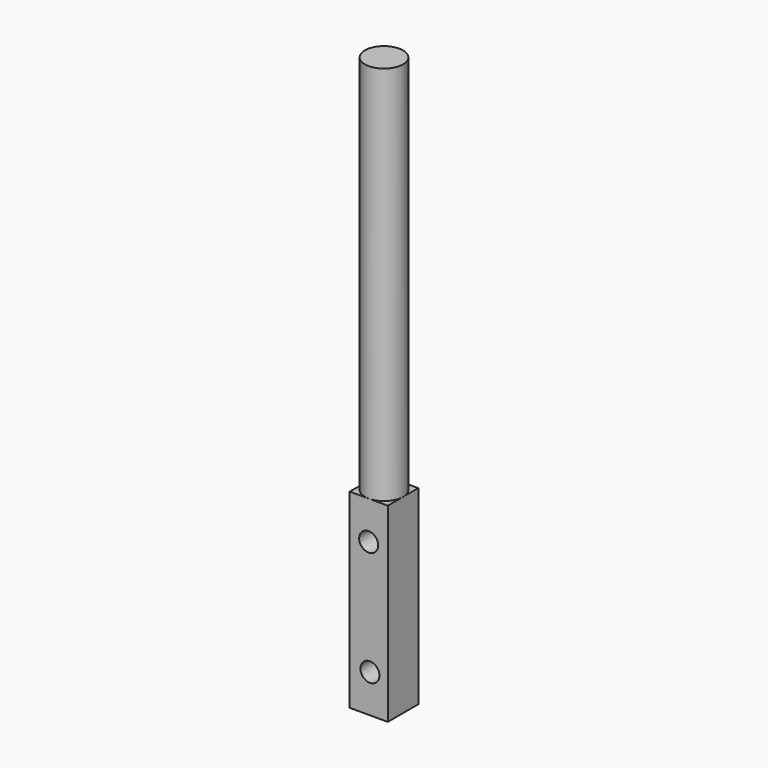
from build123d import *

# Parameters (mm, degrees)
F0_W     = 12.7
F0_H     = 12.7
F1_DEPTH = 63.5
F2_R     = 6.35
F3_DEPTH = 127
F4_R     = 3.175
F5_DEPTH = 12.7


with BuildPart() as f1:
    # F0 (on Top) → F1 (new body)
    with BuildSketch(Plane.XY):
        with Locations((1.832432, -4.137916)):
            Rectangle(F0_W, F0_H)
    extrude(amount=F1_DEPTH)

    # F2 (on face) → F3 (join)
    with BuildSketch(Plane.XY.offset(63.5)):
        with Locations((1.832432, -4.137916)):
            Circle(F2_R)
    extrude(amount=F3_DEPTH)

    # F4 (on face) → F5 (cut)
    with BuildSketch(Plane.XZ.offset(10.487916)):
        with Locations((2.226785, 12.7)):
            Circle(F4_R)
        with Locations((1.795804, 50.8)):
            Circle(F4_R)
    extrude(amount=-F5_DEPTH, mode=Mode.SUBTRACT)


solid = f1.part
